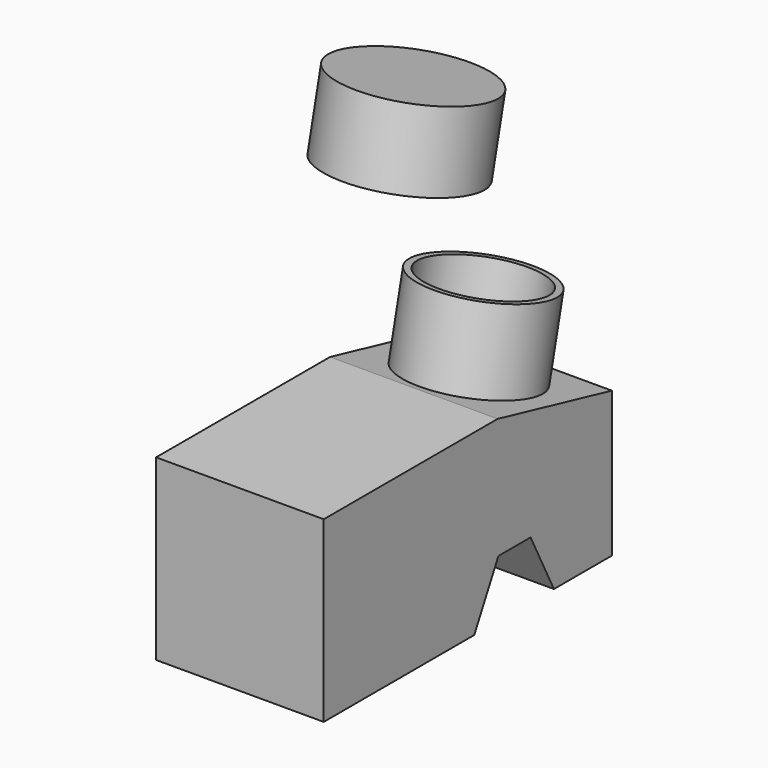
from build123d import *

# Parameters (mm, degrees)
F1_DEPTH = 20
F2_R     = 15.1341211979
F2_R_2   = 13.5239981161
F3_DEPTH = 19
F4_R     = 17.3697524292
F5_DEPTH = 18
F6_R     = 15.2472264347
F7_DEPTH = 17


with BuildPart() as f1:
    # F0 (on Right) → F1 (new body, symmetric)
    with BuildSketch(Plane.YZ):
        Polygon((-63.624240458, 23.85104257), (-63.624240458, -18.7271349132), (-18.7271349132, -18.7271349132), (-11.5243913606, -5.0419210456), (-1.9207322039, -5.0419210456), (5.041921977, -18.7271349132), (22.3285052925, -18.7271349132), (22.3285052925, 15.9280243827), (-11.7644835263, 23.85104257), align=None)
    extrude(amount=F1_DEPTH, both=True)

    # F2 (on face) → F3 (join)
    with BuildSketch(Plane(origin=(0, 4.6560231333, 20.0350094965), x_dir=(1, 0, 0), z_dir=(0, 0.2263621452, 0.9740432122))):
        Circle(F2_R)
        Circle(F2_R_2, mode=Mode.SUBTRACT)
    extrude(amount=F3_DEPTH)


with BuildPart() as f5:
    # F4 (on face) → F5 (new body)
    with BuildSketch(Plane(origin=(0, 8.9569038921, 38.5418305281), x_dir=(1, 0, 0), z_dir=(0, 0.2263621452, 0.9740432122))):
        with Locations((-50.6593026221, 39.3750034273)):
            Circle(F4_R)
    extrude(amount=F5_DEPTH)

    # F6 (on face) → F7 (cut)
    with BuildSketch(Plane(origin=(0, 8.9569038921, 38.5418305281), x_dir=(1, 0, 0), z_dir=(0, -0.2263621452, -0.9740432122))):
        with Locations((-50.6593026221, -39.3750034273)):
            Circle(F6_R)
    extrude(amount=-F7_DEPTH, mode=Mode.SUBTRACT)


solid = Compound([f1.part, f5.part])
